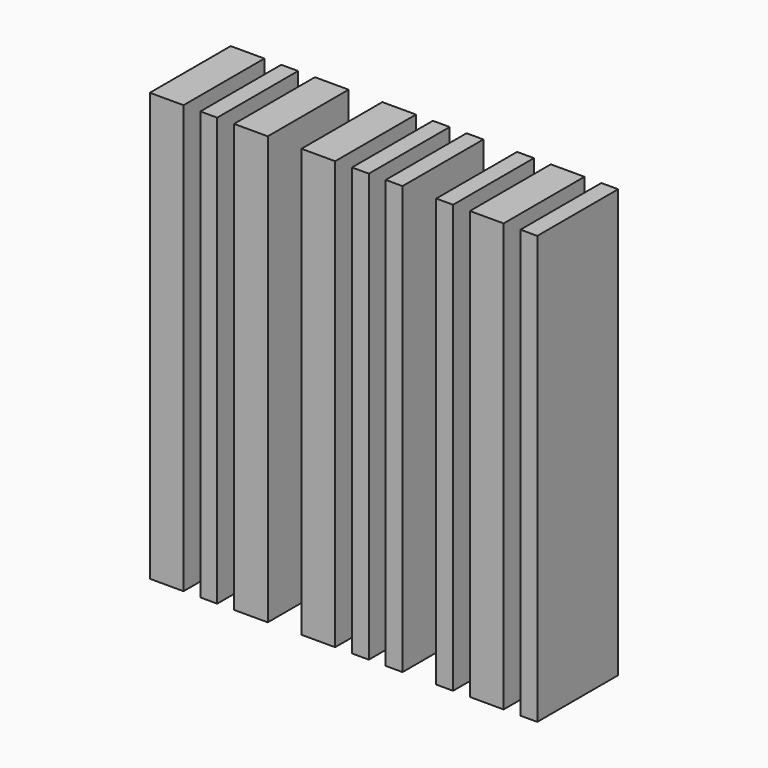
from build123d import *

# Parameters (mm, degrees)
F0_W     = 2
F0_H     = 6
F0_W_2   = 1
F1_DEPTH = 25.4


with BuildPart() as f1:
    # F0 (on Top) → F1 (new body)
    with BuildSketch(Plane.XY):
        with Locations((1, 3)):
            Rectangle(F0_W, F0_H)
        with Locations((3.5, 3)):
            Rectangle(F0_W_2, F0_H)
        with Locations((6, 3)):
            Rectangle(F0_W, F0_H)
        with Locations((10, 3)):
            Rectangle(F0_W, F0_H)
        with Locations((12.5, 3)):
            Rectangle(F0_W_2, F0_H)
        with Locations((14.5, 3)):
            Rectangle(F0_W_2, F0_H)
        with Locations((17.5, 3)):
            Rectangle(F0_W_2, F0_H)
        with Locations((20, 3)):
            Rectangle(F0_W, F0_H)
        with Locations((22.5, 3)):
            Rectangle(F0_W_2, F0_H)
    extrude(amount=F1_DEPTH)


solid = f1.part
